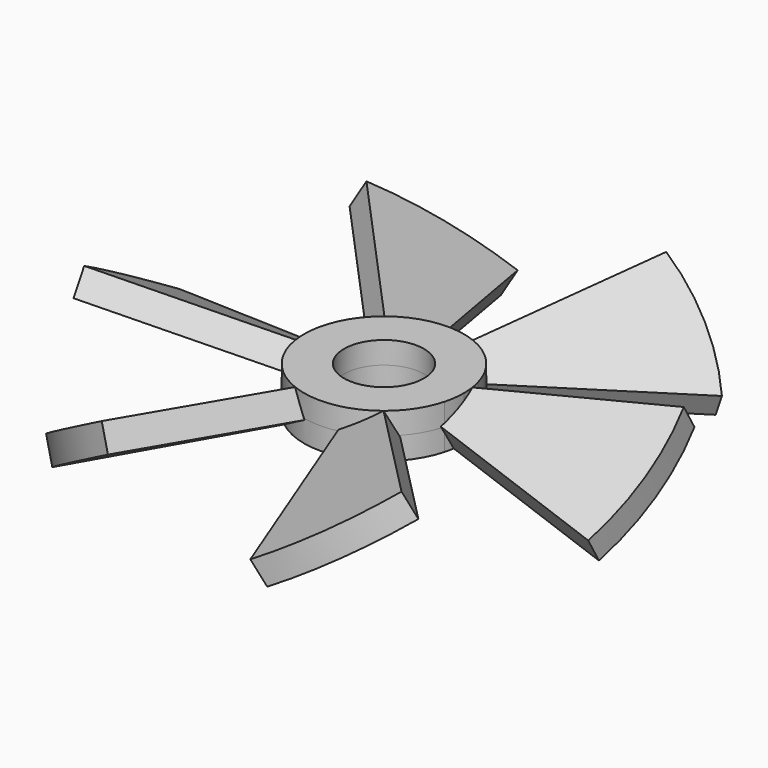
from build123d import *

# Parameters (mm, degrees)
F1_DEPTH      = 5
F2_ANGLE      = 30
F0_R          = 15
F4_DEPTH      = 25
F4_DEPTH_BACK = 25
F5_COUNT      = 6
F6_DEPTH      = 8.3061645655
F6_DEPTH_BACK = 8.3061645655


with BuildPart() as f1:
    # F0 (on Top) → F1 (new body, symmetric)
    with BuildSketch(Plane.XY):
        with BuildLine():
            Line((28.9777747887, -7.7645713531), (96.5925826289, -25.8819045103))
            ThreePointArc((96.5925826289, -25.8819045103), (100, 0), (96.5925826289, 25.8819045103))
            Line((96.5925826289, 25.8819045103), (28.9777747887, 7.7645713531))
            ThreePointArc((28.9777747887, 7.7645713531), (29.7433458412, 3.9157857666), (30, 0))
            ThreePointArc((30, 0), (29.7433458412, -3.9157857666), (28.9777747887, -7.7645713531))
        make_face()
        with BuildLine():
            Line((23.4384574105, -6.280315735), (28.9777747887, -7.7645713531))
            ThreePointArc((28.9777747887, -7.7645713531), (29.7433458412, -3.9157857666), (30, 0))
            ThreePointArc((30, 0), (29.7433458412, 3.9157857666), (28.9777747887, 7.7645713531))
            Line((28.9777747887, 7.7645713531), (23.4384574105, 6.280315735))
            ThreePointArc((23.4384574105, 6.280315735), (24.2652766627, 0), (23.4384574105, -6.280315735))
        make_face()
    extrude(amount=F1_DEPTH, both=True)


with BuildPart() as f1_1:
    # F2: moved
    add(f1.part.rotate(Axis((53.4821525216, 0, 0), (1, 0, 0)), F2_ANGLE))

    # F0 (on Top) → F4 (cut, two sides)
    with BuildSketch(Plane.XY) as f4_sk:
        with BuildLine():
            ThreePointArc((28.9777747887, 7.7645713531), (-30, 0), (28.9777747887, -7.7645713531))
            Line((28.9777747887, -7.7645713531), (23.4384574105, -6.280315735))
            ThreePointArc((23.4384574105, -6.280315735), (24.2652766627, 0), (23.4384574105, 6.280315735))
            Line((23.4384574105, 6.280315735), (28.9777747887, 7.7645713531))
        make_face()
        Circle(F0_R, mode=Mode.SUBTRACT)
        with BuildLine():
            Line((23.4384574105, -6.280315735), (28.9777747887, -7.7645713531))
            ThreePointArc((28.9777747887, -7.7645713531), (29.7433458412, -3.9157857666), (30, 0))
            ThreePointArc((30, 0), (29.7433458412, 3.9157857666), (28.9777747887, 7.7645713531))
            Line((28.9777747887, 7.7645713531), (23.4384574105, 6.280315735))
            ThreePointArc((23.4384574105, 6.280315735), (24.2652766627, 0), (23.4384574105, -6.280315735))
        make_face()
    extrude(amount=-F4_DEPTH, mode=Mode.SUBTRACT)
    extrude(f4_sk.sketch, amount=F4_DEPTH_BACK, mode=Mode.SUBTRACT)


with BuildPart() as f5_1:
    # F5: instance of F1
    add(f1_1.part.rotate(Axis((0, 0, 24.5690848678), (0, 0, 1)), 1 * 360 / F5_COUNT))


with BuildPart() as f5_2:
    # F5: instance of F1
    add(f1_1.part.rotate(Axis((0, 0, 24.5690848678), (0, 0, 1)), 2 * 360 / F5_COUNT))


with BuildPart() as f5_3:
    # F5: instance of F1
    add(f1_1.part.rotate(Axis((0, 0, 24.5690848678), (0, 0, 1)), 3 * 360 / F5_COUNT))


with BuildPart() as f5_4:
    # F5: instance of F1
    add(f1_1.part.rotate(Axis((0, 0, 24.5690848678), (0, 0, 1)), 4 * 360 / F5_COUNT))


with BuildPart() as f5_5:
    # F5: instance of F1
    add(f1_1.part.rotate(Axis((0, 0, 24.5690848678), (0, 0, 1)), 5 * 360 / F5_COUNT))


with BuildPart() as f1_2:
    add(f1_1.part)

    add(f5_1.part)  # F6 merges F5_1

    add(f5_2.part)  # F6 merges F5_2

    add(f5_3.part)  # F6 merges F5_3

    add(f5_4.part)  # F6 merges F5_4

    add(f5_5.part)  # F6 merges F5_5
    # F0 (on Top) → F6 (join, two sides)
    with BuildSketch(Plane.XY) as f6_sk:
        with BuildLine():
            ThreePointArc((28.9777747887, 7.7645713531), (-30, 0), (28.9777747887, -7.7645713531))
            Line((28.9777747887, -7.7645713531), (23.4384574105, -6.280315735))
            ThreePointArc((23.4384574105, -6.280315735), (24.2652766627, 0), (23.4384574105, 6.280315735))
            Line((23.4384574105, 6.280315735), (28.9777747887, 7.7645713531))
        make_face()
        Circle(F0_R, mode=Mode.SUBTRACT)
        with BuildLine():
            Line((23.4384574105, -6.280315735), (28.9777747887, -7.7645713531))
            ThreePointArc((28.9777747887, -7.7645713531), (29.7433458412, -3.9157857666), (30, 0))
            ThreePointArc((30, 0), (29.7433458412, 3.9157857666), (28.9777747887, 7.7645713531))
            Line((28.9777747887, 7.7645713531), (23.4384574105, 6.280315735))
            ThreePointArc((23.4384574105, 6.280315735), (24.2652766627, 0), (23.4384574105, -6.280315735))
        make_face()
    extrude(amount=F6_DEPTH)
    extrude(f6_sk.sketch, amount=-F6_DEPTH_BACK)


solid = f1_2.part
